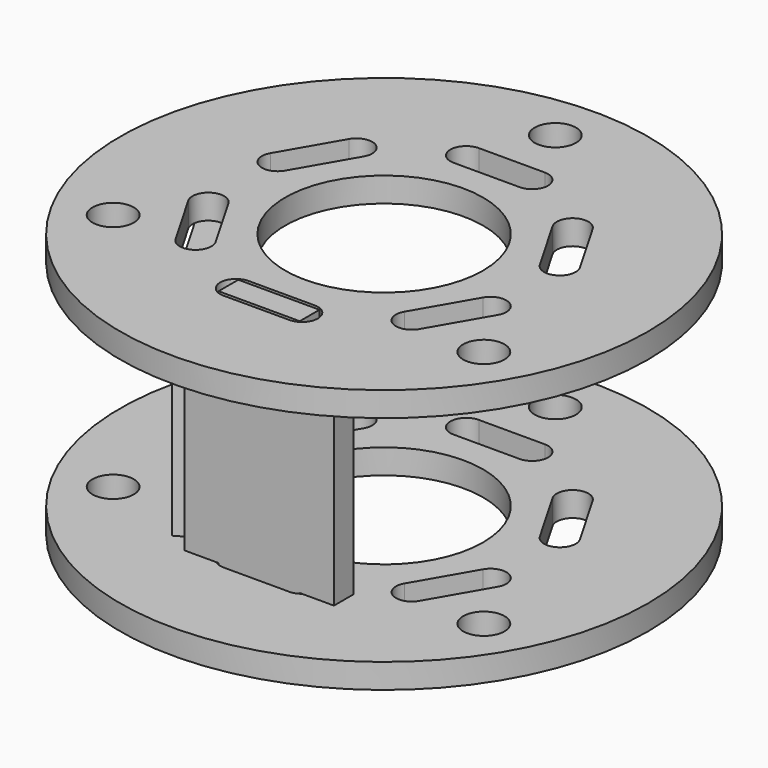
from build123d import *

# Parameters (mm, degrees)
F0_R      = 50.8
F0_R_2    = 3.9751
F0_R_3    = 19.05
F1_DEPTH  = 4.7498
F4_DEPTH  = 25.4
F5_W      = 28.795146
F5_H      = 4.7498
F6_DEPTH  = 41.3004
F7_W      = 15.621
F7_H      = 4.7498
F8_DEPTH  = 4.7498
F9_R      = 50.8
F9_R_2    = 3.9751
F9_R_3    = 19.05
F10_DEPTH = 4.7498
F11_W     = 15.621
F11_H     = 4.7498
F12_DEPTH = 4.7498


with BuildPart() as f1:
    # F0 (on Top) → F1 (new body)
    with BuildSketch(Plane.XY):
        Circle(F0_R)
        with Locations((-35.66904, -20.59353)):
            Circle(F0_R_2, mode=Mode.SUBTRACT)
        Circle(F0_R_3, mode=Mode.SUBTRACT)
        with Locations((35.66904, -20.59353)):
            Circle(F0_R_2, mode=Mode.SUBTRACT)
        with Locations((0, 41.187059)):
            Circle(F0_R_2, mode=Mode.SUBTRACT)
    extrude(amount=F1_DEPTH)

    # F3 (on face) → F4 (cut)
    with BuildSketch(Plane.XY.offset(4.7498)):
        with BuildLine():
            ThreePointArc((-6.35, 30.734959), (-9.398, 27.686959), (-6.35, 24.638959))
            Line((-6.35, 24.638959), (6.35, 24.638959))
            ThreePointArc((6.35, 24.638959), (9.398, 27.686959), (6.35, 30.734959))
            Line((6.35, 30.734959), (-6.35, 30.734959))
        make_face()
        with BuildLine():
            ThreePointArc((24.512965, 6.820218), (28.67661, 5.704573), (29.792255, 9.868218))
            Line((29.792255, 9.868218), (23.442255, 20.866741))
            ThreePointArc((23.442255, 20.866741), (19.27861, 21.982386), (18.162965, 17.818741))
            Line((18.162965, 17.818741), (24.512965, 6.820218))
        make_face()
        with BuildLine():
            ThreePointArc((29.792255, -9.868218), (28.67661, -5.704573), (24.512965, -6.820218))
            Line((24.512965, -6.820218), (18.162965, -17.818741))
            ThreePointArc((18.162965, -17.818741), (19.27861, -21.982386), (23.442255, -20.866741))
            Line((23.442255, -20.866741), (29.792255, -9.868218))
        make_face()
        with BuildLine():
            ThreePointArc((6.35, -30.734959), (9.398, -27.686959), (6.35, -24.638959))
            Line((6.35, -24.638959), (-6.35, -24.638959))
            ThreePointArc((-6.35, -24.638959), (-9.398, -27.686959), (-6.35, -30.734959))
            Line((-6.35, -30.734959), (6.35, -30.734959))
        make_face()
        with BuildLine():
            ThreePointArc((-23.442255, -20.866741), (-19.27861, -21.982386), (-18.162965, -17.818741))
            Line((-18.162965, -17.818741), (-24.512965, -6.820218))
            ThreePointArc((-24.512965, -6.820218), (-28.67661, -5.704573), (-29.792255, -9.868218))
            Line((-29.792255, -9.868218), (-23.442255, -20.866741))
        make_face()
        with BuildLine():
            ThreePointArc((-29.792255, 9.868218), (-28.67661, 5.704573), (-24.512965, 6.820218))
            Line((-24.512965, 6.820218), (-18.162965, 17.818741))
            ThreePointArc((-18.162965, 17.818741), (-19.27861, 21.982386), (-23.442255, 20.866741))
            Line((-23.442255, 20.866741), (-29.792255, 9.868218))
        make_face()
    extrude(amount=-F4_DEPTH, mode=Mode.SUBTRACT)


with BuildPart() as f6:
    # F5 (on face) → F6 (new body)
    with BuildSketch(Plane.XY.offset(4.7498)):
        with Locations((0, -27.686959)):
            Rectangle(F5_W, F5_H)
        Polygon((-18.835547, -27.499594), (-14.7221, -25.124694), (-29.119673, -0.187365), (-33.23312, -2.562265), align=None)
    extrude(amount=F6_DEPTH)

    # F7 (on face) → F8 (join)
    with BuildSketch(Plane(origin=(0, 0, 4.7498), x_dir=(1, 0, 0), z_dir=(0, 0, -1))):
        with Locations((0, 27.686959)):
            Rectangle(F7_W, F7_H)
    extrude(amount=F8_DEPTH)

    # F11 (on face) → F12 (join)
    with BuildSketch(Plane.XY.offset(46.0502)):
        with Locations((0, -27.686959)):
            Rectangle(F11_W, F11_H)
    extrude(amount=F12_DEPTH)


with BuildPart() as f10:
    # F9 (on face) → F10 (new body)
    with BuildSketch(Plane.XY.offset(46.0502)):
        Circle(F9_R)
        with BuildLine():
            ThreePointArc((6.35, -24.638959), (9.398, -27.686959), (6.35, -30.734959))
            Line((6.35, -30.734959), (-6.35, -30.734959))
            ThreePointArc((-6.35, -30.734959), (-9.398, -27.686959), (-6.35, -24.638959))
            Line((-6.35, -24.638959), (6.35, -24.638959))
        make_face(mode=Mode.SUBTRACT)
        with Locations((-35.66904, -20.59353)):
            Circle(F9_R_2, mode=Mode.SUBTRACT)
        with BuildLine():
            Line((-24.512965, -6.820218), (-18.162965, -17.818741))
            ThreePointArc((-18.162965, -17.818741), (-19.27861, -21.982386), (-23.442255, -20.866741))
            Line((-23.442255, -20.866741), (-29.792255, -9.868218))
            ThreePointArc((-29.792255, -9.868218), (-28.67661, -5.704573), (-24.512965, -6.820218))
        make_face(mode=Mode.SUBTRACT)
        Circle(F9_R_3, mode=Mode.SUBTRACT)
        with BuildLine():
            ThreePointArc((24.512965, -6.820218), (28.67661, -5.704573), (29.792255, -9.868218))
            Line((29.792255, -9.868218), (23.442255, -20.866741))
            ThreePointArc((23.442255, -20.866741), (19.27861, -21.982386), (18.162965, -17.818741))
            Line((18.162965, -17.818741), (24.512965, -6.820218))
        make_face(mode=Mode.SUBTRACT)
        with Locations((35.66904, -20.59353)):
            Circle(F9_R_2, mode=Mode.SUBTRACT)
        with BuildLine():
            Line((-29.792255, 9.868218), (-23.442255, 20.866741))
            ThreePointArc((-23.442255, 20.866741), (-19.27861, 21.982386), (-18.162965, 17.818741))
            Line((-18.162965, 17.818741), (-24.512965, 6.820218))
            ThreePointArc((-24.512965, 6.820218), (-28.67661, 5.704573), (-29.792255, 9.868218))
        make_face(mode=Mode.SUBTRACT)
        with BuildLine():
            Line((-6.35, 30.734959), (6.35, 30.734959))
            ThreePointArc((6.35, 30.734959), (9.398, 27.686959), (6.35, 24.638959))
            Line((6.35, 24.638959), (-6.35, 24.638959))
            ThreePointArc((-6.35, 24.638959), (-9.398, 27.686959), (-6.35, 30.734959))
        make_face(mode=Mode.SUBTRACT)
        with Locations((0, 41.187059)):
            Circle(F9_R_2, mode=Mode.SUBTRACT)
        with BuildLine():
            ThreePointArc((29.792255, 9.868218), (28.67661, 5.704573), (24.512965, 6.820218))
            Line((24.512965, 6.820218), (18.162965, 17.818741))
            ThreePointArc((18.162965, 17.818741), (19.27861, 21.982386), (23.442255, 20.866741))
            Line((23.442255, 20.866741), (29.792255, 9.868218))
        make_face(mode=Mode.SUBTRACT)
    extrude(amount=F10_DEPTH)


solid = Compound([f1.part, f6.part, f10.part])
